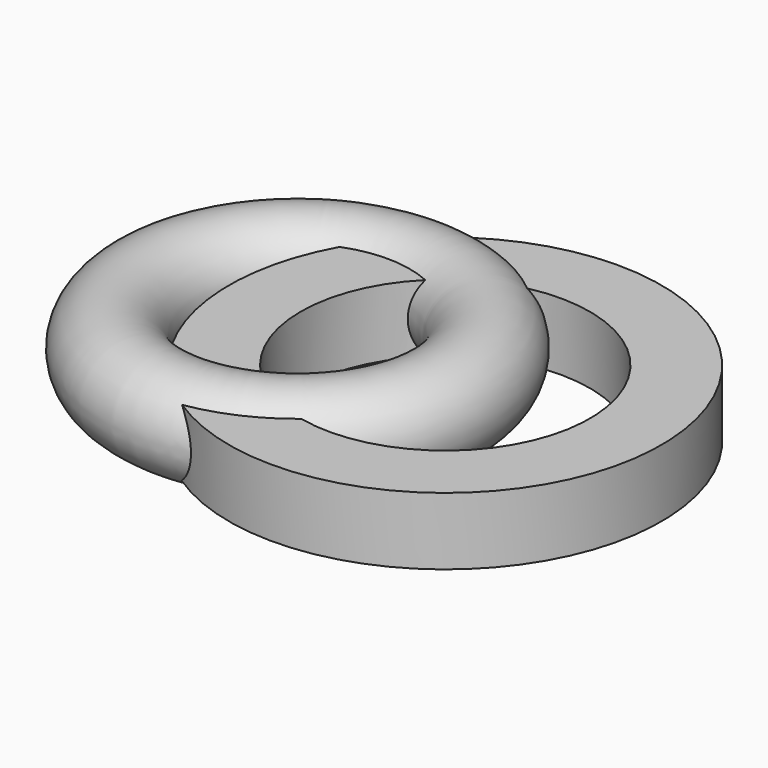
from build123d import *

# Parameters (mm, degrees)
F0_W = 20.131584
F0_H = 18.94737
F2_R = 13.652167


with BuildPart() as f1:
    # F0 (on Front) → F1 (revolve)
    with BuildSketch(Plane.XZ):
        with Locations((50.77303, -0.148026)):
            Rectangle(F0_W, F0_H)
    revolve(axis=Axis((0, 0, 10.06579), (0, 0, -1)))

    # F2 (on Front) → F3 (revolve)
    with BuildSketch(Plane.XZ):
        Circle(F2_R)
    revolve(axis=Axis((-41.595396, 0, 5.773026), (0, 0, -1)))


solid = f1.part
